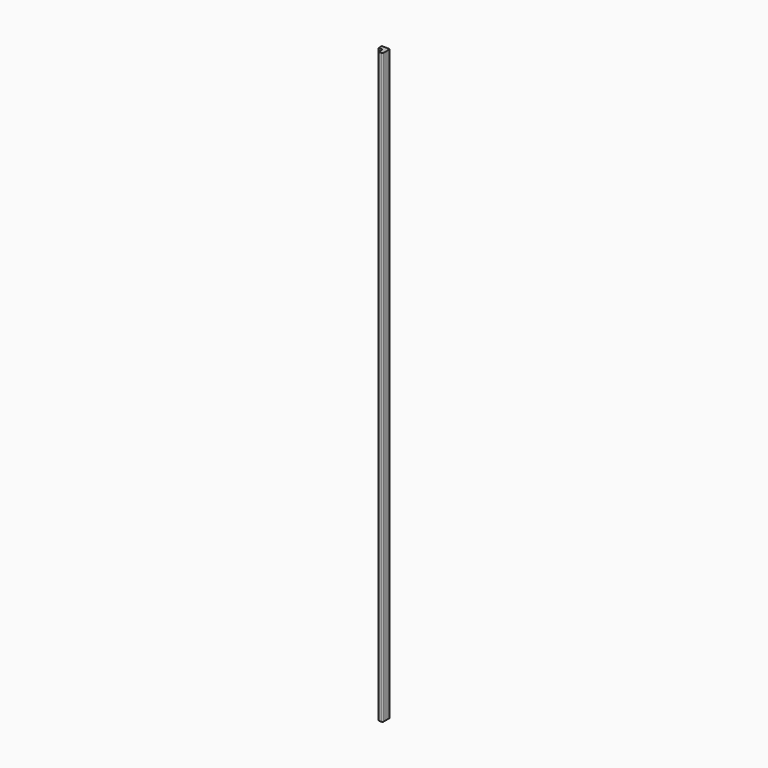
from build123d import *

# Parameters (mm, degrees)
F1_DEPTH = 1828.8


with BuildPart() as f1:
    # F0 (on Top) → F1 (new body)
    with BuildSketch(Plane.XY):
        with BuildLine():
            Line((0, 15.875), (0, 0))
            Line((0, 0), (9.525, 0))
            ThreePointArc((9.525, 0), (11.770064, 0.929936), (12.7, 3.175))
            Line((12.7, 3.175), (12.7, 25.4))
            ThreePointArc((12.7, 25.4), (11.770064, 27.645064), (9.525, 28.575))
            Line((9.525, 28.575), (-12.7, 28.575))
            Line((-12.7, 28.575), (-12.7, 15.875))
            Line((-12.7, 15.875), (0, 15.875))
        make_face()
    extrude(amount=F1_DEPTH)


solid = f1.part
